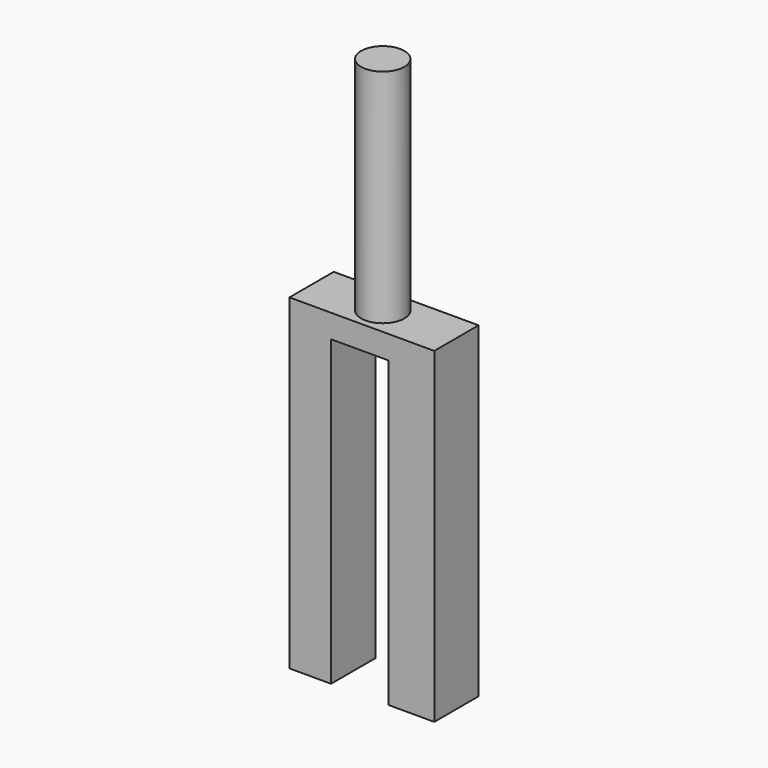
from build123d import *

# Parameters (mm, degrees)
F0_W     = 5.2836788818
F0_H     = 2.1386321168
F1_DEPTH = 5.08
F2_R     = 1.9844931554
F3_DEPTH = 20.32


with BuildPart() as f1:
    # F0 (on Front) → F1 (new body)
    with BuildSketch(Plane.XZ):
        with Locations((-15.4736326076, 1.0693160584)):
            Rectangle(F0_W, F0_H)
        Polygon((-12.8317931667, 2.1386321168), (-12.8317931667, 0), (-12.8317931667, -27.8271362185), (-8.6476681754, -27.8271362185), (-8.6476681754, 2.1386321168), align=None)
        Polygon((-18.1154720485, -27.8271362185), (-18.1154720485, 0), (-18.1154720485, 2.1386321168), (-21.9318177551, 2.1386321168), (-21.9318177551, -27.8271362185), align=None)
    extrude(amount=F1_DEPTH)

    # F2 (on face) → F3 (join)
    with BuildSketch(Plane.XY.offset(2.1386321168)):
        with Locations((-15.4426656663, -2.4918615818)):
            Circle(F2_R)
    extrude(amount=F3_DEPTH)


solid = f1.part
